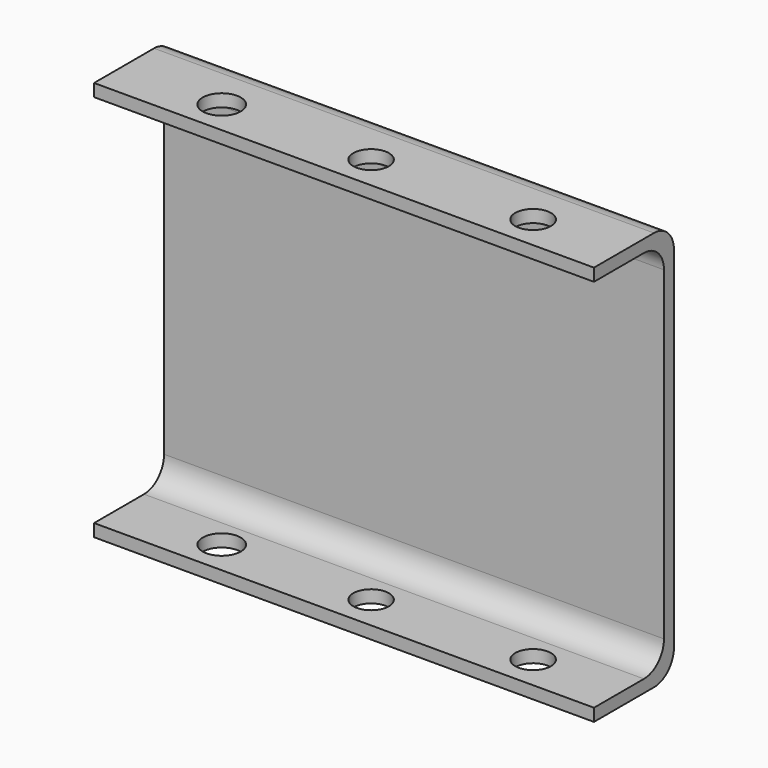
from build123d import *

# Parameters (mm, degrees)
F1_DEPTH      = 31.75
F2_R          = 2.2595381717
F2_R_2        = 2.4154540774
F2_R_3        = 2.2678572685
F3_DEPTH      = 25.401
F3_DEPTH_BACK = 25.401


with BuildPart() as f1:
    # F0 (on Right) → F1 (new body, symmetric)
    with BuildSketch(Plane.YZ):
        with BuildLine():
            Line((-0.79375, 0), (0.79375, 0))
            Line((0.79375, 0), (0.79375, 22.225))
            ThreePointArc((0.79375, 22.225), (-0.1361859697, 24.4700640303), (-2.38125, 25.4))
            Line((-2.38125, 25.4), (-11.90625, 25.4))
            Line((-11.90625, 25.4), (-11.90625, 23.8125))
            Line((-11.90625, 23.8125), (-3.96875, 23.8125))
            ThreePointArc((-3.96875, 23.8125), (-1.7236859697, 22.8825640303), (-0.79375, 20.6375))
            Line((-0.79375, 20.6375), (-0.79375, 0))
        make_face()
        with BuildLine():
            Line((0.79375, -22.225), (0.79375, 0))
            Line((0.79375, 0), (-0.79375, 0))
            Line((-0.79375, 0), (-0.79375, -20.6375))
            ThreePointArc((-0.79375, -20.6375), (-1.7236859697, -22.8825640303), (-3.96875, -23.8125))
            Line((-3.96875, -23.8125), (-11.90625, -23.8125))
            Line((-11.90625, -23.8125), (-11.90625, -25.4))
            Line((-11.90625, -25.4), (-2.38125, -25.4))
            ThreePointArc((-2.38125, -25.4), (-0.1361859697, -24.4700640303), (0.79375, -22.225))
        make_face()
    extrude(amount=F1_DEPTH, both=True)

    # F2 (on Top) → F3 (cut, two sides)
    with BuildSketch(Plane.XY) as f3_sk:
        with Locations((0, -7.6030581258)):
            Circle(F2_R)
        with Locations((-18.9749002457, -7.6030581258)):
            Circle(F2_R_2)
        with Locations((20.5765273422, -7.6030581258)):
            Circle(F2_R_3)
    extrude(amount=-F3_DEPTH, mode=Mode.SUBTRACT)
    extrude(f3_sk.sketch, amount=F3_DEPTH_BACK, mode=Mode.SUBTRACT)


solid = f1.part
